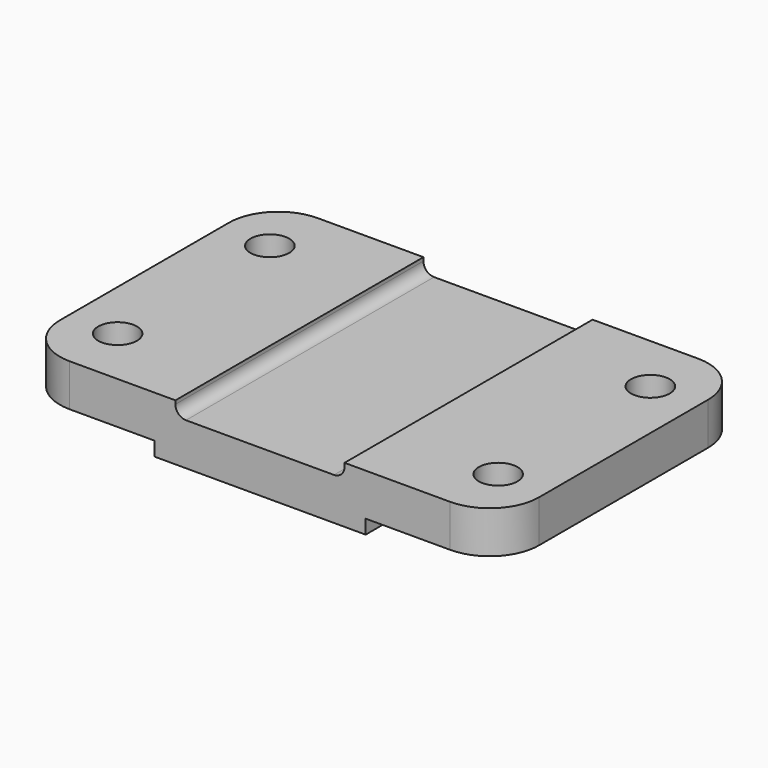
from build123d import *

# Parameters (mm, degrees)
F1_DEPTH = 44
F2_R     = 14
F3_R     = 5.5
F4_DEPTH = 16.001


with BuildPart() as f1:
    # F0 (on Front) → F1 (new body, symmetric)
    with BuildSketch(Plane.XZ):
        with BuildLine():
            Line((-30, 4), (-30, 0))
            Line((-30, 0), (30, 0))
            Line((30, 0), (30, 4))
            Line((30, 4), (68, 4))
            Line((68, 4), (68, 16))
            Line((68, 16), (24, 16))
            Line((24, 16), (24, 15))
            ThreePointArc((24, 15), (23.12132, 12.87868), (21, 12))
            Line((21, 12), (-21, 12))
            ThreePointArc((-21, 12), (-23.12132, 12.87868), (-24, 15))
            Line((-24, 15), (-24, 16))
            Line((-24, 16), (-68, 16))
            Line((-68, 16), (-68, 4))
            Line((-68, 4), (-30, 4))
        make_face()
    extrude(amount=F1_DEPTH, both=True)

    # F2
    f2_edges = [f1.edges().sort_by_distance(p)[0] for p in [
        (-68, -44, 10),
        (-68, 44, 10),
        (68, 44, 10),
        (68, -44, 10),
    ]]
    fillet(f2_edges, radius=F2_R)

    # F3 (on Top) → F4 (cut, through all)
    with BuildSketch(Plane.XY):
        with Locations((-54, 27)):
            Circle(F3_R)
        with Locations((-54, -27)):
            Circle(F3_R)
        with Locations((54, 27)):
            Circle(F3_R)
        with Locations((54, -27)):
            Circle(F3_R)
    extrude(amount=F4_DEPTH, mode=Mode.SUBTRACT)


solid = f1.part
